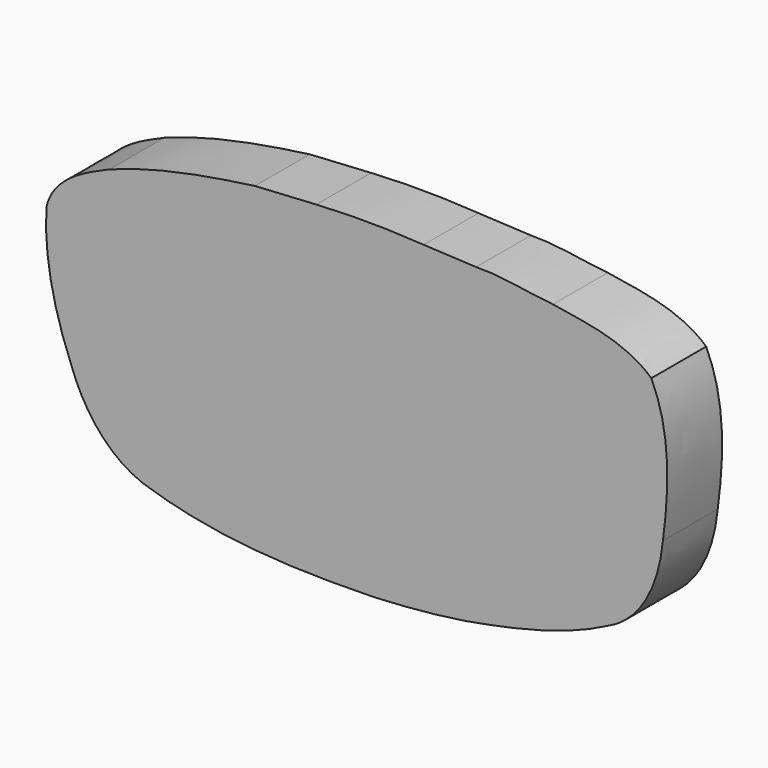
from build123d import *

# Parameters (mm, degrees)
F1_DEPTH = 5.5


with BuildPart() as f1:
    # F0 (on Front) → F1 (new body)
    with BuildSketch(Plane.XZ):
        with BuildLine():
            add(Edge.make_bspline(
                [(0.6758598093, -12.2489799833), (-5.5498903201, -12.3984574233), (-11.9305317274, -12.227772475), (-17.890133, -10.243843)],
                knots=[0, 0, 0, 0, 1, 1, 1, 1], degree=3))
            add(Edge.make_bspline(
                [(7.9035817913, -11.5578230353), (5.5098445254, -11.9245932099), (3.0942876494, -12.1367334196), (0.6758598093, -12.2489799833)],
                knots=[0, 0, 0, 0, 1, 1, 1, 1], degree=3))
            add(Edge.make_bspline(
                [(19.5974576154, -8.0692228566), (15.9875835953, -9.9997347648), (11.9045931578, -10.8586310612), (7.9035817913, -11.5578230353)],
                knots=[0, 0, 0, 0, 1, 1, 1, 1], degree=3))
            add(Edge.make_bspline(
                [(23.809875817, -0.7216973936), (23.5378016009, -3.6133165214), (22.359936086, -6.7162637207), (19.5974576154, -8.0692228566)],
                knots=[0, 0, 0, 0, 1, 1, 1, 1], degree=3))
            add(Edge.make_bspline(
                [(22.8834069818, 10.4543693851), (24.509795718, 7.003494691), (24.2936108362, 2.9805741757), (23.809875817, -0.7216973936)],
                knots=[0, 0, 0, 0, 1, 1, 1, 1], degree=3))
            add(Edge.make_bspline(
                [(14.9855240471, 13.1022079), (17.7097783424, 12.6495019359), (20.736270004, 12.3719879477), (22.8834069818, 10.4543693851)],
                knots=[0, 0, 0, 0, 1, 1, 1, 1], degree=3))
            add(Edge.make_bspline(
                [(8.8218775748, 13.7333114735), (10.8750758251, 13.7928802042), (12.9338541865, 13.2843984819), (14.9855240471, 13.1022079)],
                knots=[0, 0, 0, 0, 1, 1, 1, 1], degree=3))
            add(Edge.make_bspline(
                [(4.6061780692, 13.9378751561), (5.9990608765, 13.8722050111), (7.3587261907, 13.8440037466), (8.8218775748, 13.7333114735)],
                knots=[0, 0, 0, 0, 1, 1, 1, 1], degree=3))
            add(Edge.make_bspline(
                [(-4.0032574468, 13.977877938), (-1.1294736911, 14.1508692375), (1.7368486959, 14.1250515783), (4.6061780692, 13.9378751561)],
                knots=[0, 0, 0, 0, 1, 1, 1, 1], degree=3))
            add(Edge.make_bspline(
                [(-8.927594553, 13.6887167614), (-7.7823789155, 13.7424052951), (-5.7139993513, 13.8898579963), (-4.0032574468, 13.977877938)],
                knots=[0, 0, 0, 0, 1, 1, 1, 1], degree=3))
            add(Edge.make_bspline(
                [(-20.5945826061, 11.0673803347), (-16.8483672121, 12.4749721553), (-12.8767438908, 13.1422122891), (-8.927594553, 13.6887167614)],
                knots=[0, 0, 0, 0, 1, 1, 1, 1], degree=3))
            add(Edge.make_bspline(
                [(-25.6580106135, 6.7581202969), (-25.1131305703, 9.12522515), (-22.6087873824, 10.1980426045), (-20.5945826061, 11.0673803347)],
                knots=[0, 0, 0, 0, 1, 1, 1, 1], degree=3))
            add(Edge.make_bspline(
                [(-23.6186404015, -3.8701239523), (-24.9895708376, -0.5232160867), (-25.8799250596, 3.1283847658), (-25.6580106135, 6.7581202969)],
                knots=[0, 0, 0, 0, 1, 1, 1, 1], degree=3))
            add(Edge.make_bspline(
                [(-17.890133, -10.243843), (-20.7114287371, -9.1836302255), (-22.6223625823, -6.6290007447), (-23.6186404015, -3.8701239523)],
                knots=[0, 0, 0, 0, 1, 1, 1, 1], degree=3))
        make_face()
    extrude(amount=F1_DEPTH)


solid = f1.part
